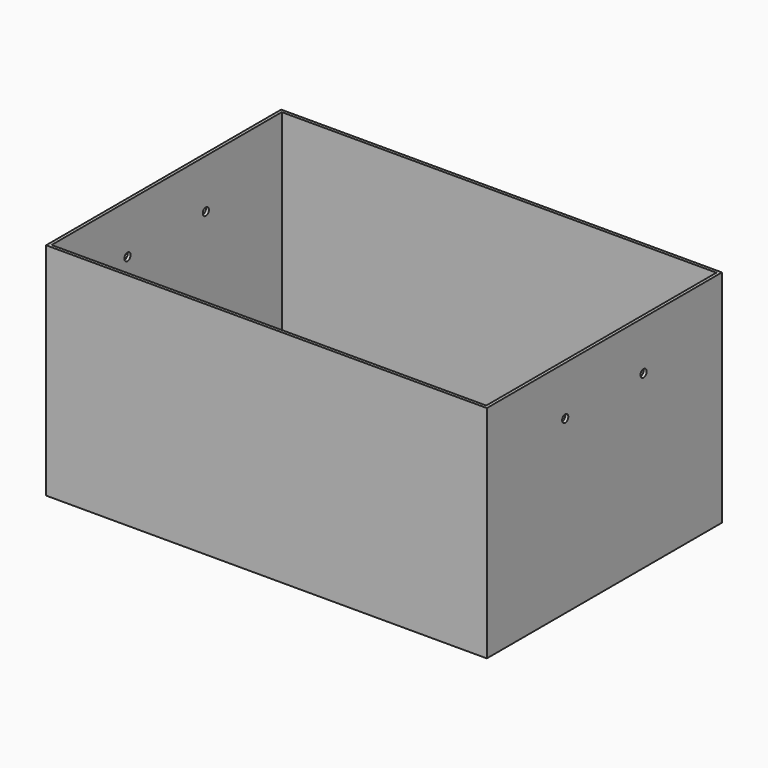
from build123d import *

# Parameters (mm, degrees)
F0_W     = 457.2
F0_H     = 304.8
F1_DEPTH = 228.6
F2_T     = -3.175
F4_D     = 8


with BuildPart() as f1:
    # F0 (on Top) → F1 (new body)
    with BuildSketch(Plane.XY):
        with Locations((228.6, -152.4)):
            Rectangle(F0_W, F0_H)
    extrude(amount=F1_DEPTH)

    # F2
    f2_openings = [f1.faces().sort_by_distance(p)[0] for p in [
        (228.6, -152.4, 228.6),
    ]]
    offset(amount=F2_T, openings=f2_openings)

    # F4 (through all)
    with Locations(Plane(origin=(0, 0, 0), x_dir=(0, -1, 0), z_dir=(-1, 0, 0))):
        with Locations((203.2, 177.8), (101.6, 177.8)):
            Hole(F4_D / 2)


solid = f1.part
